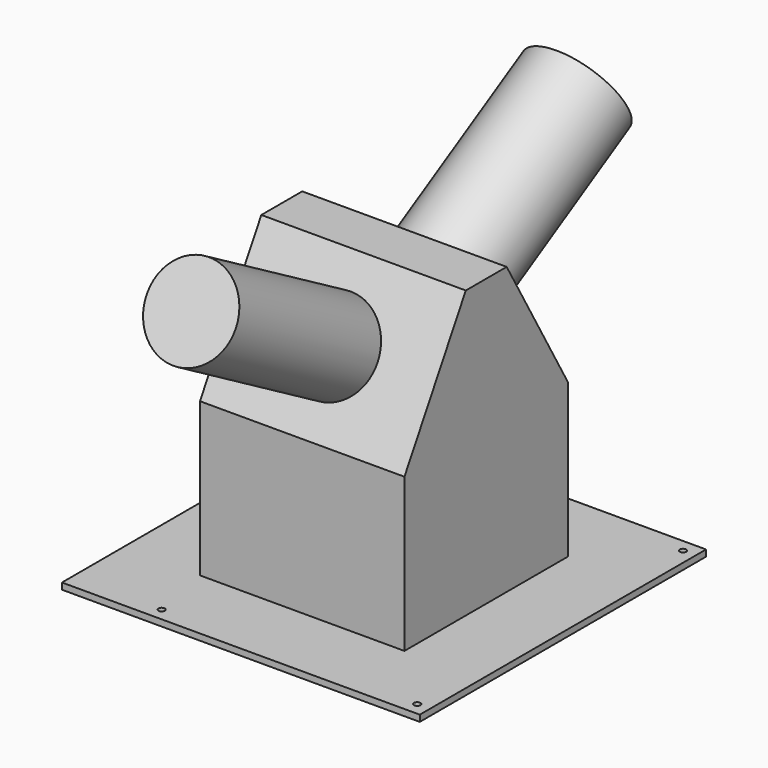
from build123d import *

# Parameters (mm, degrees)
F1_DEPTH = 203.2
F2_R     = 50.8
F3_DEPTH = 203.2
F4_R     = 44.45
F5_DEPTH = 203.2
F6_W     = 355.6
F6_H     = 355.6
F7_DEPTH = 6.35
F8_R     = 3.175
F9_DEPTH = 6.35


with BuildPart() as f1:
    # F0 (on Right) → F1 (new body)
    with BuildSketch(Plane.YZ):
        Polygon((-101.6, 152.4), (-101.6, 0), (101.6, 0), (101.6, 152.4), (25.4, 284.382272), (-25.4, 284.382272), align=None)
    extrude(amount=F1_DEPTH)

    # F2 (on face) → F3 (join)
    with BuildSketch(Plane(origin=(0, 142.191136, 82.094091), x_dir=(-1, 0, 0), z_dir=(0, 0.866025, 0.5))):
        with Locations((-101.6, 157.382272)):
            Circle(F2_R)
    extrude(amount=F3_DEPTH)

    # F4 (on face) → F5 (join)
    with BuildSketch(Plane(origin=(0, -142.191136, 82.094091), x_dir=(1, 0, 0), z_dir=(0, -0.866025, 0.5))):
        with Locations((101.6, 157.382272)):
            Circle(F4_R)
    extrude(amount=F5_DEPTH)

    # F6 (on face) → F7 (join)
    with BuildSketch(Plane(origin=(0, 0, 0), x_dir=(1, 0, 0), z_dir=(0, 0, -1))):
        with Locations((101.6, 0)):
            Rectangle(F6_W, F6_H)
    extrude(amount=F7_DEPTH)

    # F8 (on face) → F9 (cut, through all)
    with BuildSketch(Plane(origin=(0, 0, -6.35), x_dir=(1, 0, 0), z_dir=(0, 0, -1))):
        with Locations((266.7, 165.1)):
            Circle(F8_R)
        with Locations((266.7, -165.1)):
            Circle(F8_R)
        with Locations((12.7, -165.1)):
            Circle(F8_R)
        with Locations((12.7, 165.1)):
            Circle(F8_R)
    extrude(amount=-F9_DEPTH, mode=Mode.SUBTRACT)


solid = f1.part
